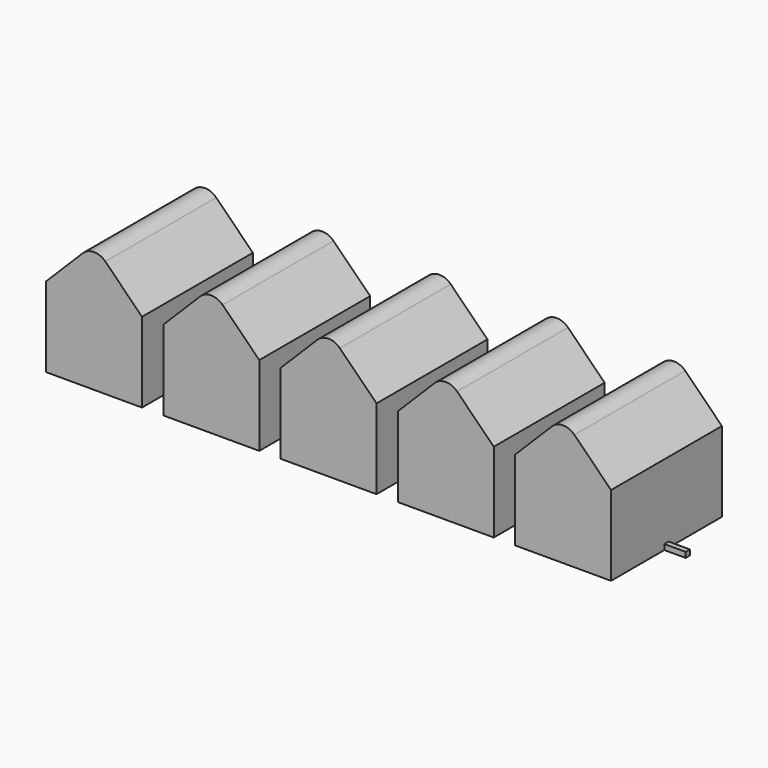
from build123d import *

# Parameters (mm, degrees)
F0_W     = 2
F0_H     = 0.5
F1_DEPTH = 13
F2_W     = 2
F2_H     = 6.25
F3_DEPTH = 11.37968


with BuildPart() as f1:
    # F0 (on Front) → F1 (new body)
    with BuildSketch(Plane.XZ):
        Polygon((-4.5, -3.75), (4.5, -3.75), (4.5, -3.25), (4.5, 3.75), (-4.5, 3.75), align=None)
        with Locations((5.5, -3.5)):
            Rectangle(F0_W, F0_H)
        Polygon((6.5, -3.25), (6.5, -3.75), (15.5, -3.75), (15.5, -3.25), (15.5, 3.75), (6.5, 3.75), align=None)
        with BuildLine():
            Line((-1.06066, 7.18934), (-4.5, 3.75))
            Line((-4.5, 3.75), (4.5, 3.75))
            Line((4.5, 3.75), (1.06066, 7.18934))
            ThreePointArc((1.06066, 7.18934), (0, 7.62868), (-1.06066, 7.18934))
        make_face()
        with Locations((16.5, -3.5)):
            Rectangle(F0_W, F0_H)
        with BuildLine():
            Line((9.93934, 7.18934), (6.5, 3.75))
            Line((6.5, 3.75), (15.5, 3.75))
            Line((15.5, 3.75), (12.06066, 7.18934))
            ThreePointArc((12.06066, 7.18934), (11, 7.62868), (9.93934, 7.18934))
        make_face()
        Polygon((17.5, -3.25), (17.5, -3.75), (26.5, -3.75), (26.5, -3.25), (26.5, 3.75), (17.5, 3.75), align=None)
        with Locations((27.5, -3.5)):
            Rectangle(F0_W, F0_H)
        with BuildLine():
            Line((20.93934, 7.18934), (17.5, 3.75))
            Line((17.5, 3.75), (26.5, 3.75))
            Line((26.5, 3.75), (23.06066, 7.18934))
            ThreePointArc((23.06066, 7.18934), (22, 7.62868), (20.93934, 7.18934))
        make_face()
        Polygon((28.5, -3.25), (28.5, -3.75), (37.5, -3.75), (37.5, -3.25), (37.5, 3.75), (28.5, 3.75), align=None)
        with Locations((38.5, -3.5)):
            Rectangle(F0_W, F0_H)
        with BuildLine():
            Line((31.93934, 7.18934), (28.5, 3.75))
            Line((28.5, 3.75), (37.5, 3.75))
            Line((37.5, 3.75), (34.06066, 7.18934))
            ThreePointArc((34.06066, 7.18934), (33, 7.62868), (31.93934, 7.18934))
        make_face()
        Polygon((39.5, -3.25), (39.5, -3.75), (48.5, -3.75), (48.5, -3.25), (48.5, 3.75), (39.5, 3.75), align=None)
        with Locations((49.5, -3.5)):
            Rectangle(F0_W, F0_H)
        with BuildLine():
            Line((42.93934, 7.18934), (39.5, 3.75))
            Line((39.5, 3.75), (48.5, 3.75))
            Line((48.5, 3.75), (45.06066, 7.18934))
            ThreePointArc((45.06066, 7.18934), (44, 7.62868), (42.93934, 7.18934))
        make_face()
    extrude(amount=-F1_DEPTH)

    # F2 (on face) → F3 (cut, through all)
    with BuildSketch(Plane(origin=(0, 0, -3.75), x_dir=(1, 0, 0), z_dir=(0, 0, -1))):
        with Locations((5.5, -3.125)):
            Rectangle(F2_W, F2_H)
        with Locations((5.5, -9.875)):
            Rectangle(F2_W, F2_H)
        with Locations((16.5, -3.125)):
            Rectangle(F2_W, F2_H)
        with Locations((16.5, -9.875)):
            Rectangle(F2_W, F2_H)
        with Locations((27.5, -3.125)):
            Rectangle(F2_W, F2_H)
        with Locations((27.5, -9.875)):
            Rectangle(F2_W, F2_H)
        with Locations((38.5, -3.125)):
            Rectangle(F2_W, F2_H)
        with Locations((38.5, -9.875)):
            Rectangle(F2_W, F2_H)
        with Locations((49.5, -3.125)):
            Rectangle(F2_W, F2_H)
        with Locations((49.5, -9.875)):
            Rectangle(F2_W, F2_H)
    extrude(amount=-F3_DEPTH, mode=Mode.SUBTRACT)


solid = f1.part
